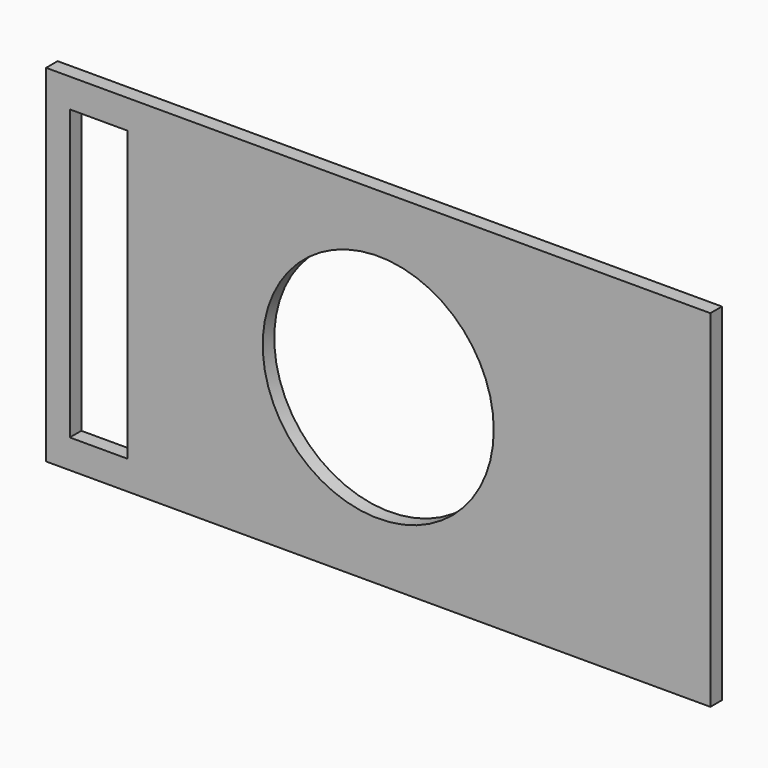
from build123d import *

# Parameters (mm, degrees)
F0_W     = 146.05
F0_H     = 76.2
F0_W_2   = 12.7
F0_H_2   = 63.5
F0_R     = 25.4
F1_DEPTH = 1.5875


with BuildPart() as f1:
    # F0 (on Front) → F1 (new body, symmetric)
    with BuildSketch(Plane.XZ):
        Rectangle(F0_W, F0_H)
        with Locations((-61.460756, 0)):
            Rectangle(F0_W_2, F0_H_2, mode=Mode.SUBTRACT)
        Circle(F0_R, mode=Mode.SUBTRACT)
    extrude(amount=F1_DEPTH, both=True)


solid = f1.part
